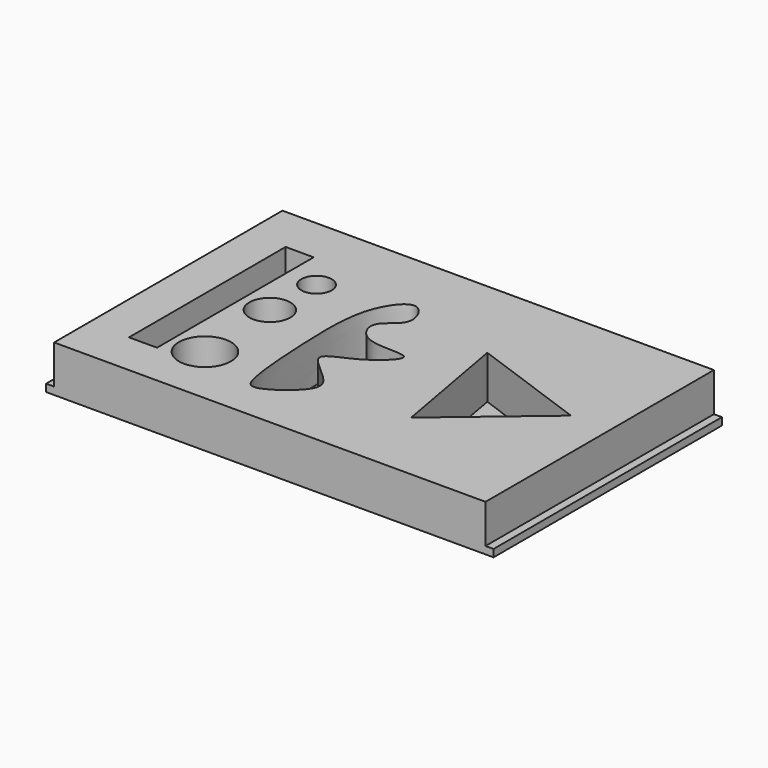
from build123d import *

# Parameters (mm, degrees)
F0_W     = 368.3
F0_H     = 234.95
F1_DEPTH = 38.1
F2_W     = 6.604
F2_H     = 32.004
F3_DEPTH = 234.951
F4_R     = 16.8960598702
F4_R_2   = 21.4477044948
F4_W     = 23.0748131871
F4_H     = 161.1514985561
F4_R_3   = 12.4831112704
F5_DEPTH = 35.56
F6_R     = 7.62


with BuildPart() as f1:
    # F0 (on Top) → F1 (new body)
    with BuildSketch(Plane.XY):
        Rectangle(F0_W, F0_H)
    extrude(amount=F1_DEPTH)

    # F2 (on face) → F3 (cut, through all)
    with BuildSketch(Plane.XZ.offset(117.475)):
        with Locations((180.848, 22.098)):
            Rectangle(F2_W, F2_H)
        with Locations((-180.848, 22.098)):
            Rectangle(F2_W, F2_H)
    extrude(amount=-F3_DEPTH, mode=Mode.SUBTRACT)

    # F4 (on face) → F5 (cut)
    with BuildSketch(Plane.XY.offset(38.1)):
        with BuildLine():
            add(Edge.make_bspline(
                [(-46.1496077478, -75.1792117953), (-49.3186279348, -60.6904518614), (-52.4598845595, -7.9087934106), (-52.5301794964, 45.6558860892), (-27.0101126446, 77.186916711), (-10.4710171081, 43.8396118699), (-38.9306329093, 34.1741312423), (-25.0554307802, 4.9086663528), (24.8994478008, 14.7435687242), (-9.0404651832, -16.7182072693), (-44.7013135767, -25.0884012199), (-2.5046643875, -50.5573295528), (-8.3693665776, -69.2660043872), (-40.33373303, -91.7806813493), (-44.7509198876, -81.5740125329), (-46.1496077478, -75.1792117953)],
                knots=[0, 0, 0, 0, 0.1157160493, 0.2250923254, 0.2979411693, 0.3640759595, 0.4304625959, 0.4971515908, 0.5778883555, 0.6550256298, 0.7270889253, 0.8092921071, 0.8674075577, 0.9489272318, 1, 1, 1, 1], degree=3))
        make_face()
        with Locations((-97.5096747279, 4.4660978019)):
            Circle(F4_R)
        with Locations((-93.7879234552, -66.9913738966)):
            Circle(F4_R_2)
        with Locations((-132.866229862, -1.3026073575)):
            Rectangle(F4_W, F4_H)
        with Locations((-96.0209742188, 50.6157167256)):
            Circle(F4_R_3)
        Polygon((145.4843993486, 10.5082045873), (48.7906520068, 45.3179564694), (66.9913962483, -55.8261610568), align=None)
    extrude(amount=-F5_DEPTH, mode=Mode.SUBTRACT)

    # F6
    f6_edges = [f1.edges().sort_by_distance(p)[0] for p in [
        (-144.403636, -1.302607, 2.54),
        (-132.86623, -81.878357, 2.54),
        (-121.328823, -1.302607, 2.54),
        (-132.86623, 79.273142, 2.54),
    ]]
    fillet(f6_edges, radius=F6_R)


solid = f1.part
